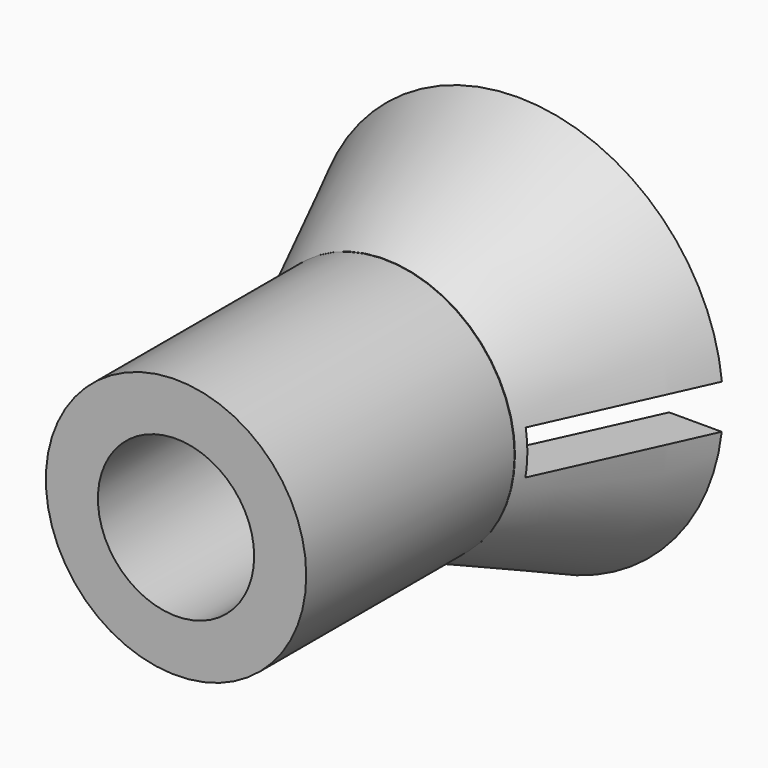
from build123d import *

# Parameters (mm, degrees)
F0_R     = 5
F0_R_2   = 3
F1_DEPTH = 10
F6_DEPTH = 6


with BuildPart() as f1:
    # F0 (on Front) → F1 (new body)
    with BuildSketch(Plane.XZ):
        Circle(F0_R)
        Circle(F0_R_2, mode=Mode.SUBTRACT)
    extrude(amount=-F1_DEPTH)


with BuildPart() as f4:
    # F3 (on Top) → F4 (revolve)
    with BuildSketch(Plane.XY):
        Polygon((2.990321, 10.010189), (4.996989, 10.024931), (7.881791, 16.402855), (5.881791, 16.402855), align=None)
    revolve(axis=Axis((0, 16.03541, 0), (0, 1, 0)))

    # F5 (on face) → F6 (cut)
    with BuildSketch(Plane(origin=(0, 16.402855, 0), x_dir=(-1, 0, 0), z_dir=(0, 1, 0))):
        with BuildLine():
            ThreePointArc((7.881791, 0), (7.87134, 0.405751), (7.840015, 0.810426))
            Line((7.840015, 0.810426), (5.825691, 0.810426))
            ThreePointArc((5.825691, 0.810426), (5.867749, 0.406183), (5.881791, 0))
            ThreePointArc((5.881791, 0), (5.864962, -0.444623), (5.81457, -0.886702))
            Line((5.81457, -0.886702), (7.831755, -0.886702))
            ThreePointArc((7.831755, -0.886702), (7.869272, -0.444056), (7.881791, 0))
        make_face()
        with BuildLine():
            Line((9.343737, 0.810426), (7.840015, 0.810426))
            ThreePointArc((7.840015, 0.810426), (7.87134, 0.405751), (7.881791, 0))
            ThreePointArc((7.881791, 0), (7.869272, -0.444056), (7.831755, -0.886702))
            Line((7.831755, -0.886702), (9.343737, -0.886702))
            Line((9.343737, -0.886702), (9.343737, 0.810426))
        make_face()
        with BuildLine():
            Line((5.825691, 0.810426), (-5.825691, 0.810426))
            ThreePointArc((-5.825691, 0.810426), (-5.881665, -0.038541), (-5.81457, -0.886702))
            Line((-5.81457, -0.886702), (5.81457, -0.886702))
            ThreePointArc((5.81457, -0.886702), (5.864962, -0.444623), (5.881791, 0))
            ThreePointArc((5.881791, 0), (5.867749, 0.406183), (5.825691, 0.810426))
        make_face()
        with BuildLine():
            Line((-5.825691, 0.810426), (-7.840015, 0.810426))
            ThreePointArc((-7.840015, 0.810426), (-7.881698, -0.038361), (-7.831755, -0.886702))
            Line((-7.831755, -0.886702), (-5.81457, -0.886702))
            ThreePointArc((-5.81457, -0.886702), (-5.881665, -0.038541), (-5.825691, 0.810426))
        make_face()
        with BuildLine():
            Line((-7.840015, 0.810426), (-8.809809, 0.810426))
            Line((-8.809809, 0.810426), (-8.809809, -0.886702))
            Line((-8.809809, -0.886702), (-7.831755, -0.886702))
            ThreePointArc((-7.831755, -0.886702), (-7.881698, -0.038361), (-7.840015, 0.810426))
        make_face()
    extrude(amount=-F6_DEPTH, mode=Mode.SUBTRACT)


solid = Compound([f1.part, f4.part])
